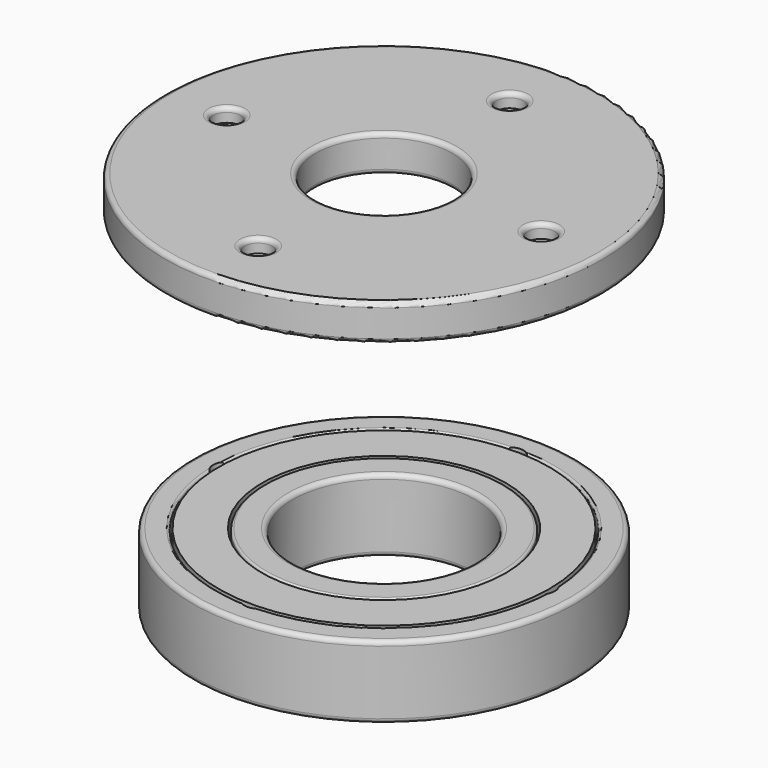
from build123d import *

# Parameters (mm, degrees)
SKETCH_R          = 36.25
SKETCH_R_2        = 26.75
EXTRUDE_DEPTH     = 4
CYLINDER005_R     = 3
CYLINDER005_DEPTH = 15
CYLINDER006_R     = 3
CYLINDER006_DEPTH = 15
CYLINDER007_R     = 3
CYLINDER007_DEPTH = 15
CYLINDER004_R     = 3
CYLINDER004_DEPTH = 15
SKETCH002_R       = 2
EXTRUDE002_DEPTH  = 8
SKETCH001_R       = 36.75
SKETCH001_R_2     = 26.25
EXTRUDE001_DEPTH  = 7
TUBE_R            = 42
TUBE_R_2          = 20
TUBE_DEPTH        = 16
FILLET_1_R        = 1
FILLET_2_R        = 0.5
FILLET_3_R        = 0.2
CYLINDER001_R     = 3
CYLINDER001_DEPTH = 15
CYLINDER002_R     = 3
CYLINDER002_DEPTH = 15
CYLINDER003_R     = 3
CYLINDER003_DEPTH = 15
CYLINDER_R        = 3
CYLINDER_DEPTH    = 15
TUBE002_R         = 48
TUBE002_R_2       = 42.5
TUBE002_DEPTH     = 5
TUBE003_R         = 19
TUBE003_R_2       = 15
TUBE003_DEPTH     = 5
TUBE001_R         = 48
TUBE001_R_2       = 15
TUBE001_DEPTH     = 3
FILLET001_R       = 1


with BuildPart() as rubber_seal:
    # Sketch → Extrude (new body)
    with BuildSketch(Plane.XY):
        Circle(SKETCH_R)
        Circle(SKETCH_R_2, mode=Mode.SUBTRACT)
    extrude(amount=EXTRUDE_DEPTH)


with BuildPart() as rubber_seal_1:
    # Extrude placement: moved
    add(rubber_seal.part.moved(Location((0, 0, 12))))


with BuildPart() as cylinder005:
    # Cylinder005 → Cylinder005 (new body)
    with BuildSketch(Plane(origin=(0, -34.5, 15), x_dir=(1, 0, 0), z_dir=(0, 0, 1))):
        Circle(CYLINDER005_R)
    extrude(amount=CYLINDER005_DEPTH)


with BuildPart() as cylinder006:
    # Cylinder006 → Cylinder006 (new body)
    with BuildSketch(Plane(origin=(-34.5, 0, 15), x_dir=(1, 0, 0), z_dir=(0, 0, 1))):
        Circle(CYLINDER006_R)
    extrude(amount=CYLINDER006_DEPTH)


with BuildPart() as cylinder007:
    # Cylinder007 → Cylinder007 (new body)
    with BuildSketch(Plane(origin=(34.5, 0, 15), x_dir=(1, 0, 0), z_dir=(0, 0, 1))):
        Circle(CYLINDER007_R)
    extrude(amount=CYLINDER007_DEPTH)


with BuildPart() as fusion002:
    # Cylinder004 → Cylinder004 (new body)
    with BuildSketch(Plane(origin=(0, 34.5, 15), x_dir=(1, 0, 0), z_dir=(0, 0, 1))):
        Circle(CYLINDER004_R)
    extrude(amount=CYLINDER004_DEPTH)

    # Fusion002: union Cylinder005, Cylinder006, Cylinder007
    add(cylinder005.part)
    add(cylinder006.part)
    add(cylinder007.part)


with BuildPart() as fusion002_1:
    # Fusion002 placement: moved
    add(fusion002.part.moved(Location((0, 0, -3))))


with BuildPart() as holes:
    # Sketch002 → Extrude002 (new body)
    with BuildSketch(Plane.XY):
        with Locations((0, 34.5)):
            Circle(SKETCH002_R)
        with Locations((0, -34.5)):
            Circle(SKETCH002_R)
        with Locations((34.5, 0)):
            Circle(SKETCH002_R)
        with Locations((-34.5, 0)):
            Circle(SKETCH002_R)
    extrude(amount=EXTRUDE002_DEPTH)


with BuildPart() as holes_1:
    # Extrude002 placement: moved
    add(holes.part.moved(Location((0, 0, 4))))


with BuildPart() as rubber_seal_cut:
    # Sketch001 → Extrude001 (new body)
    with BuildSketch(Plane.XY):
        Circle(SKETCH001_R)
        Circle(SKETCH001_R_2, mode=Mode.SUBTRACT)
    extrude(amount=EXTRUDE001_DEPTH)


with BuildPart() as rubber_seal_cut_1:
    # Extrude001 placement: moved
    add(rubber_seal_cut.part.moved(Location((0, 0, 12))))


with BuildPart() as bottom_punch_cut:
    # Tube → Tube (new body)
    with BuildSketch(Plane.XY):
        Circle(TUBE_R)
        Circle(TUBE_R_2, mode=Mode.SUBTRACT)
    extrude(amount=TUBE_DEPTH)

    # Cut: cut Rubber_Seal_CUT
    add(rubber_seal_cut_1.part, mode=Mode.SUBTRACT)

    # Cut001: cut holes
    add(holes_1.part, mode=Mode.SUBTRACT)

    # Fillet 1
    fillet_1_edges = [bottom_punch_cut.edges().sort_by_distance(p)[0] for p in [
        (-42, 0, 16),
        (-42, 0, 0),
        (-20, 0, 0),
        (-20, 0, 16),
        (-2, -34.5, 4),
        (-36.5, 0, 4),
        (32.5, 0, 4),
        (-2, 34.5, 4),
    ]]
    fillet(fillet_1_edges, radius=FILLET_1_R)

    # Fillet 2
    fillet_2_edges = [bottom_punch_cut.edges().sort_by_distance(p)[0] for p in [
        (-36.75, 0, 16),
        (-26.25, 0, 12),
        (-26.25, 0, 16),
    ]]
    fillet(fillet_2_edges, radius=FILLET_2_R)

    # Fillet 3
    fillet_3_edges = [bottom_punch_cut.edges().sort_by_distance(p)[0] for p in [
        (-36.75, 0, 12),
    ]]
    fillet(fillet_3_edges, radius=FILLET_3_R)

    # Cut003: cut Fusion002
    add(fusion002_1.part, mode=Mode.SUBTRACT)


with BuildPart() as cylinder001:
    # Cylinder001 → Cylinder001 (new body)
    with BuildSketch(Plane(origin=(0, -34.5, 15), x_dir=(1, 0, 0), z_dir=(0, 0, 1))):
        Circle(CYLINDER001_R)
    extrude(amount=CYLINDER001_DEPTH)


with BuildPart() as cylinder002:
    # Cylinder002 → Cylinder002 (new body)
    with BuildSketch(Plane(origin=(-34.5, 0, 15), x_dir=(1, 0, 0), z_dir=(0, 0, 1))):
        Circle(CYLINDER002_R)
    extrude(amount=CYLINDER002_DEPTH)


with BuildPart() as cylinder003:
    # Cylinder003 → Cylinder003 (new body)
    with BuildSketch(Plane(origin=(34.5, 0, 15), x_dir=(1, 0, 0), z_dir=(0, 0, 1))):
        Circle(CYLINDER003_R)
    extrude(amount=CYLINDER003_DEPTH)


with BuildPart() as fusion001:
    # Cylinder → Cylinder (new body)
    with BuildSketch(Plane(origin=(0, 34.5, 15), x_dir=(1, 0, 0), z_dir=(0, 0, 1))):
        Circle(CYLINDER_R)
    extrude(amount=CYLINDER_DEPTH)

    # Fusion001: union Cylinder001, Cylinder002, Cylinder003
    add(cylinder001.part)
    add(cylinder002.part)
    add(cylinder003.part)


with BuildPart() as tube002:
    # Tube002 → Tube002 (new body)
    with BuildSketch(Plane.XY.offset(14.5)):
        Circle(TUBE002_R)
        Circle(TUBE002_R_2, mode=Mode.SUBTRACT)
    extrude(amount=TUBE002_DEPTH)


with BuildPart() as tube003:
    # Tube003 → Tube003 (new body)
    with BuildSketch(Plane.XY.offset(14.5)):
        Circle(TUBE003_R)
        Circle(TUBE003_R_2, mode=Mode.SUBTRACT)
    extrude(amount=TUBE003_DEPTH)


with BuildPart() as top_cover:
    # Tube001 → Tube001 (new body)
    with BuildSketch(Plane.XY.offset(19.5)):
        Circle(TUBE001_R)
        Circle(TUBE001_R_2, mode=Mode.SUBTRACT)
    extrude(amount=TUBE001_DEPTH)

    # Fusion: union Tube002, Tube003
    add(tube002.part)
    add(tube003.part)

    # Cut002: cut Fusion001
    add(fusion001.part, mode=Mode.SUBTRACT)

    # Fillet001
    fillet001_edges = [top_cover.edges().sort_by_distance(p)[0] for p in [
        (-48, 0, 14.5),
        (-42.5, 0, 14.5),
        (-48, 0, 22.5),
        (-42.5, 0, 19.5),
        (-3, -34.5, 22.5),
        (-37.5, 0, 22.5),
        (-15, 0, 22.5),
        (31.5, 0, 22.5),
        (-3, 34.5, 22.5),
        (-19, 0, 19.5),
        (-15, 0, 14.5),
        (-19, 0, 14.5),
    ]]
    fillet(fillet001_edges, radius=FILLET001_R)


with BuildPart() as top_cover_1:
    # Fillet001 placement: moved
    add(top_cover.part.moved(Location((0, 0, 62))))


solid = Compound([rubber_seal_1.part, bottom_punch_cut.part, top_cover_1.part])
